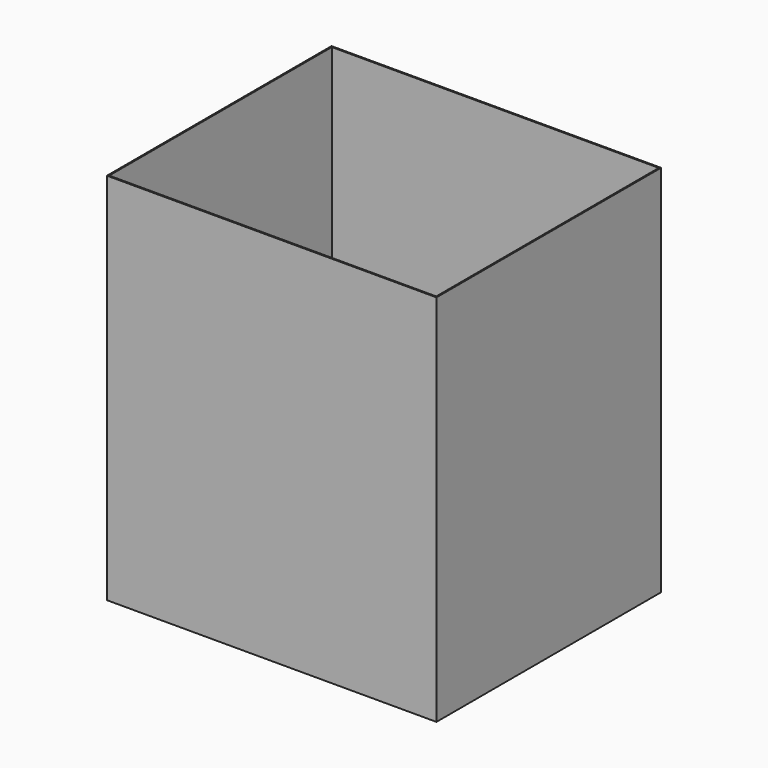
from build123d import *

# Parameters (mm, degrees)
F0_W     = 685.8
F0_H     = 584.2
F1_DEPTH = 777.875
F2_T     = -2.54


with BuildPart() as f1:
    # F0 (on Top) → F1 (new body)
    with BuildSketch(Plane.XY):
        Rectangle(F0_W, F0_H)
    extrude(amount=F1_DEPTH)

    # F2
    f2_openings = [f1.faces().sort_by_distance(p)[0] for p in [
        (0, 0, 0),
        (0, 0, 777.875),
    ]]
    offset(amount=F2_T, openings=f2_openings)


solid = f1.part
